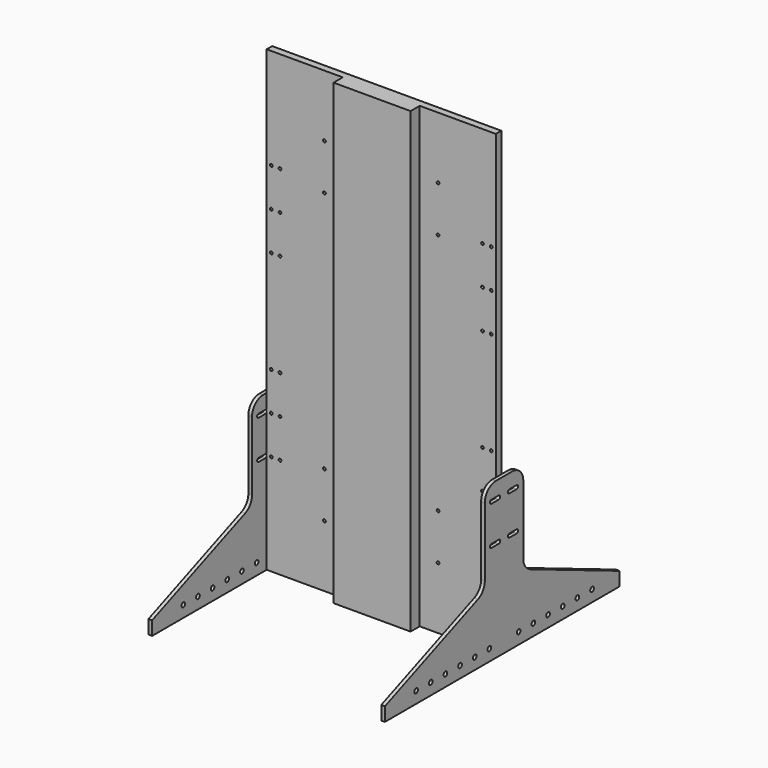
from build123d import *

# Parameters (mm, degrees)
F0_W     = 500
F0_H     = 1000
F1_DEPTH = 15
F2_W     = 168
F2_H     = 1000
F3_DEPTH = 25
F4_R     = 3
F5_DEPTH = 25
F7_DEPTH = 8
F8_R     = 5
F9_DEPTH = 25


with BuildPart() as f1:
    # F0 (on Front) → F1 (new body)
    with BuildSketch(Plane.XZ):
        Rectangle(F0_W, F0_H)
    extrude(amount=F1_DEPTH)

    # F2 (on face) → F3 (join)
    with BuildSketch(Plane.XZ.offset(15)):
        Rectangle(F2_W, F2_H)
    extrude(amount=F3_DEPTH)

    # F4 (on face) → F5 (cut)
    with BuildSketch(Plane.XZ.offset(15)):
        with Locations((124, -365)):
            Circle(F4_R)
        with Locations((124, -265)):
            Circle(F4_R)
        with Locations((240, -112)):
            Circle(F4_R)
        with Locations((240, -196)):
            Circle(F4_R)
        with Locations((240, -280)):
            Circle(F4_R)
        with Locations((221, -112)):
            Circle(F4_R)
        with Locations((221, -196)):
            Circle(F4_R)
        with Locations((221, -280)):
            Circle(F4_R)
        with Locations((-221, -112)):
            Circle(F4_R)
        with Locations((-240, -112)):
            Circle(F4_R)
        with Locations((-124, -265)):
            Circle(F4_R)
        with Locations((-240, -196)):
            Circle(F4_R)
        with Locations((-124, -365)):
            Circle(F4_R)
        with Locations((-221, -280)):
            Circle(F4_R)
        with Locations((-221, -196)):
            Circle(F4_R)
        with Locations((-240, -280)):
            Circle(F4_R)
        with Locations((240, 112)):
            Circle(F4_R)
        with Locations((221, 112)):
            Circle(F4_R)
        with Locations((-240, 112)):
            Circle(F4_R)
        with Locations((-221, 112)):
            Circle(F4_R)
        with Locations((-221, 196)):
            Circle(F4_R)
        with Locations((221, 196)):
            Circle(F4_R)
        with Locations((-240, 196)):
            Circle(F4_R)
        with Locations((124, 265)):
            Circle(F4_R)
        with Locations((240, 196)):
            Circle(F4_R)
        with Locations((221, 280)):
            Circle(F4_R)
        with Locations((-124, 265)):
            Circle(F4_R)
        with Locations((-124, 365)):
            Circle(F4_R)
        with Locations((-240, 280)):
            Circle(F4_R)
        with Locations((-221, 280)):
            Circle(F4_R)
        with Locations((124, 365)):
            Circle(F4_R)
        with Locations((240, 280)):
            Circle(F4_R)
    extrude(amount=-F5_DEPTH, mode=Mode.SUBTRACT)


with BuildPart() as f7:
    # F6 (on face) → F7 (new body)
    with BuildSketch(Plane(origin=(-250, 0, 0), x_dir=(0, -1, 0), z_dir=(-1, 0, 0))):
        with BuildLine():
            Line((-165.597554, -500), (264.541074, -500))
            Line((264.541074, -500), (327.5, -500))
            Line((327.5, -500), (327.5, -470))
            Line((327.5, -470), (73.770328, -367.577013))
            ThreePointArc((73.770328, -367.577013), (60.131444, -356.537653), (55, -339.758054))
            Line((55, -339.758054), (55, -190))
            ThreePointArc((55, -190), (46.213203, -168.786797), (25, -160))
            Line((25, -160), (15, -160))
            Line((15, -160), (-20, -160))
            ThreePointArc((-20, -160), (-41.213203, -168.786797), (-50, -190))
            Line((-50, -190), (-50, -340.043889))
            ThreePointArc((-50, -340.043889), (-55.021638, -356.659588), (-68.405429, -367.712751))
            Line((-68.405429, -367.712751), (-312.5, -470))
            Line((-312.5, -470), (-312.5, -500))
            Line((-312.5, -500), (-165.597554, -500))
        make_face()
    extrude(amount=F7_DEPTH)

    # F8 (on face) → F9 (cut)
    with BuildSketch(Plane.YZ.offset(-250)):
        with BuildLine():
            Line((32, -276), (12, -276))
            ThreePointArc((12, -276), (8, -280), (12, -284))
            Line((12, -284), (32, -284))
            ThreePointArc((32, -284), (36, -280), (32, -276))
        make_face()
        with BuildLine():
            Line((32, -191), (12, -191))
            ThreePointArc((12, -191), (8, -195), (12, -199))
            Line((12, -199), (32, -199))
            ThreePointArc((32, -199), (36, -195), (32, -191))
        make_face()
        with BuildLine():
            Line((-17, -276), (-37, -276))
            ThreePointArc((-37, -276), (-41, -280), (-37, -284))
            Line((-37, -284), (-17, -284))
            ThreePointArc((-17, -284), (-13, -280), (-17, -276))
        make_face()
        with BuildLine():
            ThreePointArc((-17, -199), (-13, -195), (-17, -191))
            Line((-17, -191), (-37, -191))
            ThreePointArc((-37, -191), (-41, -195), (-37, -199))
            Line((-37, -199), (-17, -199))
        make_face()
        with Locations((-42.5, -475)):
            Circle(F8_R)
        with Locations((-82.5, -475)):
            Circle(F8_R)
        with Locations((-122.5, -475)):
            Circle(F8_R)
        with Locations((-162.5, -475)):
            Circle(F8_R)
        with Locations((-202.5, -475)):
            Circle(F8_R)
        with Locations((-242.5, -475)):
            Circle(F8_R)
        with Locations((37.5, -475)):
            Circle(F8_R)
        with Locations((157.5, -475)):
            Circle(F8_R)
        with Locations((237.5, -475)):
            Circle(F8_R)
        with Locations((77.5, -475)):
            Circle(F8_R)
        with Locations((197.5, -475)):
            Circle(F8_R)
        with Locations((117.5, -475)):
            Circle(F8_R)
    extrude(amount=-F9_DEPTH, mode=Mode.SUBTRACT)


with BuildPart() as f10_1:
    # F10: instance of F7
    add(f7.part.mirror(Plane.YZ))


solid = Compound([f1.part, f7.part, f10_1.part])
